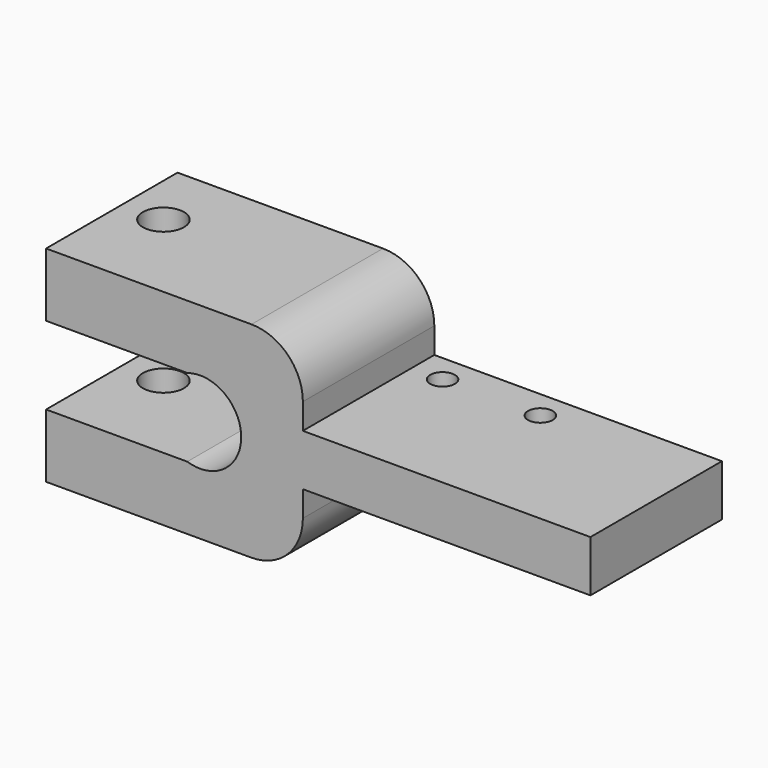
from build123d import *

# Parameters (mm, degrees)
F0_W      = 28
F0_H      = 16
F1_DEPTH  = 5
F2_R      = 1.2
F3_DEPTH  = 5.001
F4_W      = 16
F4_H      = 20
F5_DEPTH  = 25
F6_R      = 4
F7_DEPTH  = 16.001
F8_W      = 16
F8_H      = 7.6
F9_DEPTH  = 10
F10_R     = 2
F11_DEPTH = 20.001
F12_DEPTH = 15
F13_R     = 5
F14_R     = 5


with BuildPart() as f1:
    # F0 (on Top) → F1 (new body)
    with BuildSketch(Plane.XY):
        with Locations((14, 8)):
            Rectangle(F0_W, F0_H)
    extrude(amount=F1_DEPTH)

    # F2 (on face) → F3 (cut, through all)
    with BuildSketch(Plane.XY.offset(5)):
        with Locations((12.52, 13.25)):
            Circle(F2_R)
        with Locations((3, 13.25)):
            Circle(F2_R)
    extrude(amount=-F3_DEPTH, mode=Mode.SUBTRACT)

    # F4 (on face) → F5 (join)
    with BuildSketch(Plane(origin=(0, 0, 0), x_dir=(0, -1, 0), z_dir=(-1, 0, 0))):
        with Locations((-8, 2.5)):
            Rectangle(F4_W, F4_H)
    extrude(amount=F5_DEPTH)

    # F6 (on face) → F7 (cut, through all)
    with BuildSketch(Plane(origin=(0, 16, 0), x_dir=(-1, 0, 0), z_dir=(0, 1, 0))):
        with Locations((10, 2.5)):
            Circle(F6_R)
    extrude(amount=-F7_DEPTH, mode=Mode.SUBTRACT)

    # F8 (on face) → F9 (cut)
    with BuildSketch(Plane(origin=(-25, 0, 0), x_dir=(0, -1, 0), z_dir=(-1, 0, 0))):
        with Locations((-8, 2.5)):
            Rectangle(F8_W, F8_H)
    extrude(amount=-F9_DEPTH, mode=Mode.SUBTRACT)

    # F10 (on face) → F11 (cut, through all)
    with BuildSketch(Plane.XY.offset(12.5)):
        with Locations((-21, 9.280348)):
            Circle(F10_R)
    extrude(amount=-F11_DEPTH, mode=Mode.SUBTRACT)

    # F8 (on face) → F12 (cut)
    with BuildSketch(Plane(origin=(-25, 0, 0), x_dir=(0, -1, 0), z_dir=(-1, 0, 0))):
        with Locations((-8, 2.5)):
            Rectangle(F8_W, F8_H)
    extrude(amount=-F12_DEPTH, mode=Mode.SUBTRACT)

    # F13
    f13_edges = [f1.edges().sort_by_distance(p)[0] for p in [
        (0, 8, 12.5),
    ]]
    fillet(f13_edges, radius=F13_R)

    # F14
    f14_edges = [f1.edges().sort_by_distance(p)[0] for p in [
        (0, 8, -7.5),
    ]]
    fillet(f14_edges, radius=F14_R)


solid = f1.part
